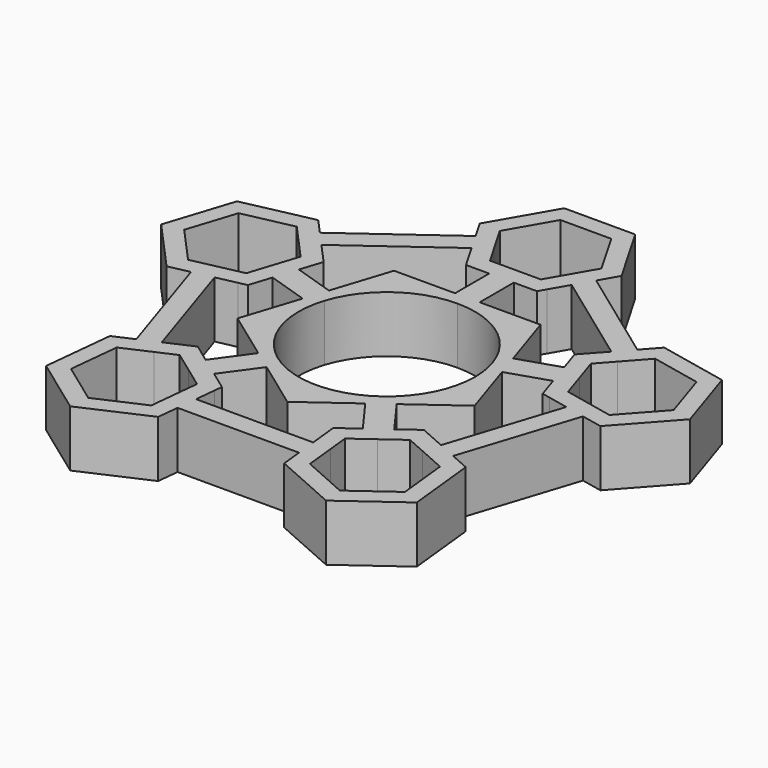
from build123d import *

# Parameters (mm, degrees)
F1_DEPTH = 7.0104


with BuildPart() as f1:
    # F0 (on Top) → F1 (new body)
    with BuildSketch(Plane.XY):
        Polygon((-19.6123088264, -14.3259550522), (-17.2804522048, -13.2841705842), (-21.7898565446, 0.5341987249), (-24.2873556745, 0), align=None)
        Polygon((-17.9706494369, 12.3259955313), (-6.1962033311, 20.8921389834), (-7.4732849288, 23.1041091962), (-7.4963492105, 23.0873294731), (-7.5672560221, 23.035743359), (-14.0950221279, 18.286663837), (-19.682144033, 14.2219216577), align=None)
        Polygon((6.2011292189, 20.9006708714), (17.9456495392, 12.3792450933), (19.652060322, 14.2792867992), (7.4780391848, 23.112343809), align=None)
        Polygon((-7.4732849288, 23.1041091962), (-6.1962033311, 20.8921389834), (-4.4406123873, 22.1693662715), (-6.3058196401, 25.4), (-3.15290982, 30.861), (3.15290982, 30.861), (6.3058196401, 25.4), (4.4441426069, 22.1754807911), (6.2011292189, 20.9006708714), (7.4780391848, 23.112343809), (8.7988181024, 25.4), (4.3994090512, 33.02), (-4.3994090512, 33.02), (-8.7988181024, 25.4), align=None)
        Polygon((24.2872762442, 0.0621152063), (21.7884190625, 0.5899247999), (17.3143701173, -13.2399321733), (19.6488834891, -14.2757494827), align=None)
        Polygon((7.5632502618, -23.0699233381), (7.2930011362, -20.5299233381), (-7.2385424412, -20.5299233381), (-7.5022237136, -23.0699233381), align=None)
        Polygon((6.2011292189, 20.9006708714), (17.9456495392, 12.3792450933), (19.652060322, 14.2792867992), (7.4780391848, 23.112343809), align=None)
        Polygon((-7.4732849288, 23.1041091962), (-6.1962033311, 20.8921389834), (-4.4406123873, 22.1693662715), (-6.3058196401, 25.4), (-3.15290982, 30.861), (3.15290982, 30.861), (6.3058196401, 25.4), (4.4441426069, 22.1754807911), (6.2011292189, 20.9006708714), (7.4780391848, 23.112343809), (8.7988181024, 25.4), (4.3994090512, 33.02), (-4.3994090512, 33.02), (-8.7988181024, 25.4), align=None)
        Polygon((-17.9706494369, 12.3259955313), (-6.1962033311, 20.8921389834), (-7.4732849288, 23.1041091962), (-7.4963492105, 23.0873294731), (-7.5672560221, 23.035743359), (-14.0950221279, 18.286663837), (-19.682144033, 14.2219216577), align=None)
        Polygon((0, 17.78), (0, 12.4951580744), (1.524, 12.4971069019), (1.524, 17.78), align=None)
        Polygon((-21.7898565446, 0.5341987249), (-22.4633388079, 2.597980532), (-26.1077876566, 1.8184567658), (-30.3331935574, 6.4991945609), (-28.3922586688, 12.4988723099), (-22.2259178793, 13.8178122637), (-19.7262403807, 11.0487682433), (-17.9706494369, 12.3259955313), (-19.682144033, 14.2219216577), (-21.458571528, 16.1897778854), (-30.0627679784, 14.3493965545), (-32.7710492184, 5.9777531838), (-26.875134008, -0.5535088559), (-24.2873556745, 0), align=None)
        Polygon((26.1030515475, 1.8852218017), (22.4566209762, 2.6554222966), (21.7884190625, 0.5899247999), (24.2872762442, 0.0621152063), (26.8764617201, -0.484773565), (32.7556538665, 6.0615459892), (30.0259709045, 14.4262355188), (21.417095796, 16.2446054942), (19.652060322, 14.2792867992), (17.9456495392, 12.3792450933), (19.7026361512, 11.1044351735), (22.1905059686, 13.8746101275), (28.3601997963, 12.5714449785), (30.3164725858, 6.5767508156), align=None)
        Polygon((9.8592390124, -24.2429116945), (9.4641871004, -20.5299233381), (7.2930011362, -20.5299233381), (7.5632502618, -23.0699233381), (7.8442363623, -25.7108373238), (15.8869265185, -29.2793573324), (22.9987005779, -24.0984433466), (22.0677844811, -15.3490093523), (19.6488834891, -14.2757494827), (17.3143701173, -13.2399321733), (16.6461682035, -15.30542967), (20.0527818309, -16.8169349816), (20.719938367, -23.0873626775), (15.6231669577, -26.800351034), align=None)
        Polygon((-7.2385424412, -20.5299233381), (-9.4091448565, -20.5299233381), (-9.7972052281, -24.2680475327), (-15.5545736407, -26.8402198238), (-20.660824394, -23.140278665), (-20.0097067346, -16.8681652152), (-16.6069699415, -15.3479523913), (-17.2804522048, -13.2841705842), (-19.6123088264, -14.3259550522), (-22.0284570324, -15.4053977804), (-22.9369933013, -24.1571839894), (-15.8119922502, -29.319892583), (-7.7784549303, -25.7308149676), (-7.5022237136, -23.0699233381), align=None)
        Polygon((-19.6123088264, -14.3259550522), (-17.2804522048, -13.2841705842), (-21.7898565446, 0.5341987249), (-24.2873556745, 0), align=None)
        Polygon((-17.9706494369, 12.3259955313), (-6.1962033311, 20.8921389834), (-7.4732849288, 23.1041091962), (-7.4963492105, 23.0873294731), (-7.5672560221, 23.035743359), (-14.0950221279, 18.286663837), (-19.682144033, 14.2219216577), align=None)
        Polygon((6.2011292189, 20.9006708714), (17.9456495392, 12.3792450933), (19.652060322, 14.2792867992), (7.4780391848, 23.112343809), align=None)
        Polygon((-7.4732849288, 23.1041091962), (-6.1962033311, 20.8921389834), (-4.4406123873, 22.1693662715), (-6.3058196401, 25.4), (-3.15290982, 30.861), (3.15290982, 30.861), (6.3058196401, 25.4), (4.4441426069, 22.1754807911), (6.2011292189, 20.9006708714), (7.4780391848, 23.112343809), (8.7988181024, 25.4), (4.3994090512, 33.02), (-4.3994090512, 33.02), (-8.7988181024, 25.4), align=None)
        Polygon((24.2872762442, 0.0621152063), (21.7884190625, 0.5899247999), (17.3143701173, -13.2399321733), (19.6488834891, -14.2757494827), align=None)
        Polygon((7.5632502618, -23.0699233381), (7.2930011362, -20.5299233381), (-7.2385424412, -20.5299233381), (-7.5022237136, -23.0699233381), align=None)
        Polygon((6.2011292189, 20.9006708714), (17.9456495392, 12.3792450933), (19.652060322, 14.2792867992), (7.4780391848, 23.112343809), align=None)
        Polygon((-7.4732849288, 23.1041091962), (-6.1962033311, 20.8921389834), (-4.4406123873, 22.1693662715), (-6.3058196401, 25.4), (-3.15290982, 30.861), (3.15290982, 30.861), (6.3058196401, 25.4), (4.4441426069, 22.1754807911), (6.2011292189, 20.9006708714), (7.4780391848, 23.112343809), (8.7988181024, 25.4), (4.3994090512, 33.02), (-4.3994090512, 33.02), (-8.7988181024, 25.4), align=None)
        Polygon((-17.9706494369, 12.3259955313), (-6.1962033311, 20.8921389834), (-7.4732849288, 23.1041091962), (-7.4963492105, 23.0873294731), (-7.5672560221, 23.035743359), (-14.0950221279, 18.286663837), (-19.682144033, 14.2219216577), align=None)
        Polygon((0, 17.78), (0, 12.4951580744), (1.524, 12.4971069019), (1.524, 17.78), align=None)
        Polygon((-21.7898565446, 0.5341987249), (-22.4633388079, 2.597980532), (-26.1077876566, 1.8184567658), (-30.3331935574, 6.4991945609), (-28.3922586688, 12.4988723099), (-22.2259178793, 13.8178122637), (-19.7262403807, 11.0487682433), (-17.9706494369, 12.3259955313), (-19.682144033, 14.2219216577), (-21.458571528, 16.1897778854), (-30.0627679784, 14.3493965545), (-32.7710492184, 5.9777531838), (-26.875134008, -0.5535088559), (-24.2873556745, 0), align=None)
        Polygon((26.1030515475, 1.8852218017), (22.4566209762, 2.6554222966), (21.7884190625, 0.5899247999), (24.2872762442, 0.0621152063), (26.8764617201, -0.484773565), (32.7556538665, 6.0615459892), (30.0259709045, 14.4262355188), (21.417095796, 16.2446054942), (19.652060322, 14.2792867992), (17.9456495392, 12.3792450933), (19.7026361512, 11.1044351735), (22.1905059686, 13.8746101275), (28.3601997963, 12.5714449785), (30.3164725858, 6.5767508156), align=None)
        Polygon((9.8592390124, -24.2429116945), (9.4641871004, -20.5299233381), (7.2930011362, -20.5299233381), (7.5632502618, -23.0699233381), (7.8442363623, -25.7108373238), (15.8869265185, -29.2793573324), (22.9987005779, -24.0984433466), (22.0677844811, -15.3490093523), (19.6488834891, -14.2757494827), (17.3143701173, -13.2399321733), (16.6461682035, -15.30542967), (20.0527818309, -16.8169349816), (20.719938367, -23.0873626775), (15.6231669577, -26.800351034), align=None)
        Polygon((-7.2385424412, -20.5299233381), (-9.4091448565, -20.5299233381), (-9.7972052281, -24.2680475327), (-15.5545736407, -26.8402198238), (-20.660824394, -23.140278665), (-20.0097067346, -16.8681652152), (-16.6069699415, -15.3479523913), (-17.2804522048, -13.2841705842), (-19.6123088264, -14.3259550522), (-22.0284570324, -15.4053977804), (-22.9369933013, -24.1571839894), (-15.8119922502, -29.319892583), (-7.7784549303, -25.7308149676), (-7.5022237136, -23.0699233381), align=None)
        Polygon((-18.9709794229, 6.1372355941), (-16.9167969376, 5.4726941603), (-16.4477088667, 6.9227053264), (-15.5626563176, 9.6585158456), (-16.2591548408, 10.4300694048), (-17.9706494369, 12.3259955313), (-19.7262403807, 11.0487682433), (-18.0005119785, 9.1370744685), align=None)
        Polygon((-17.3858850085, 4.0226829942), (-16.9167969376, 5.4726941603), (-18.9709794229, 6.1372355941), (-19.9414468672, 3.1373967196), (-22.4633388079, 2.597980532), (-21.7898565446, 0.5341987249), (-19.2923574146, 1.0683974498), (-18.2709375576, 1.286872475), align=None)
        Polygon((-11.6992129454, -16.1459635036), (-10.432419187, -14.3976744618), (-11.6665055694, -13.5034671029), (-13.9949197125, -11.816320165), (-14.9485955831, -12.2423861162), (-17.2804522048, -13.2841705842), (-16.6069699415, -15.3479523913), (-14.252338322, -14.2959929242), align=None)
        Polygon((-6.0974445658, -11.0123778434), (-7.3315309483, -10.1181704846), (-10.432419187, -14.3976744618), (-9.1983328045, -15.2918818207), align=None)
        Polygon((-10.432419187, -14.3976744618), (-7.3315309483, -10.1181704846), (-8.5656173307, -9.2239631257), (-11.6665055694, -13.5034671029), align=None)
        Polygon((-9.1983328045, -15.2918818207), (-10.432419187, -14.3976744618), (-11.6992129454, -16.1459635036), (-9.1460875687, -17.995934083), (-9.4091448565, -20.5299233381), (-7.2385424412, -20.5299233381), (-6.9748611689, -17.9899233381), (-6.8699186614, -16.9790287586), align=None)
        Polygon((11.740468181, -16.1159898204), (10.4692072952, -14.3709463366), (9.2374118949, -15.2683069619), (6.9133202655, -16.9614033295), (7.0227520107, -17.9899233381), (7.2930011362, -20.5299233381), (9.4641871004, -20.5299233381), (9.1920824764, -17.9724839986), align=None)
        Polygon((11.7010026955, -13.4735857113), (10.4692072952, -14.3709463366), (11.740468181, -16.1159898204), (14.2888538856, -14.2594956421), (16.6461682035, -15.30542967), (17.3143701173, -13.2399321733), (14.9798567454, -12.2041148639), (14.0250943249, -11.7804893438), align=None)
        Polygon((8.5891797148, -9.2020262892), (7.3573843145, -10.0993869145), (10.4692072952, -14.3709463366), (11.7010026955, -13.4735857113), align=None)
        Polygon((10.4692072952, -14.3709463366), (7.3573843145, -10.0993869145), (6.1255889142, -10.9967475398), (9.2374118949, -15.2683069619), align=None)
        with BuildLine():
            ThreePointArc((10.4072616447, 3.3962437808), (10.8115221613, 1.7194636708), (10.9474, 0))
            ThreePointArc((10.9474, 0), (9.7573805511, -4.9637779503), (6.4460404917, -8.8483969587))
            Line((6.4460404917, -8.8483969587), (7.3573843145, -10.0993869145))
            Line((7.3573843145, -10.0993869145), (8.5891797148, -9.2020262892))
            Line((8.5891797148, -9.2020262892), (14.6950184147, -4.7539343151))
            Line((14.6950184147, -4.7539343151), (12.3514394808, 2.4275993804))
            Line((12.3514394808, 2.4275993804), (11.8786445229, 3.8764061059))
            Line((11.8786445229, 3.8764061059), (10.4072616447, 3.3962437808))
        make_face()
        with BuildLine():
            Line((7.3573843145, -10.0993869145), (6.4460404917, -8.8483969587))
            ThreePointArc((6.4460404917, -8.8483969587), (0.0139990655, -10.9473910493), (-6.423389528, -8.8648538472))
            Line((-6.423389528, -8.8648538472), (-7.3315309483, -10.1181704846))
            Line((-7.3315309483, -10.1181704846), (-6.0974445658, -11.0123778434))
            Line((-6.0974445658, -11.0123778434), (0.0197502144, -15.4448395139))
            Line((0.0197502144, -15.4448395139), (6.1255889142, -10.9967475398))
            Line((6.1255889142, -10.9967475398), (7.3573843145, -10.0993869145))
        make_face()
        with BuildLine():
            Line((-7.3315309483, -10.1181704846), (-6.423389528, -8.8648538472))
            ThreePointArc((-6.423389528, -8.8648538472), (-10.4072616447, -3.3962437808), (-10.415913543, 3.3696159758))
            Line((-10.415913543, 3.3696159758), (-11.8885196301, 3.8460136511))
            Line((-11.8885196301, 3.8460136511), (-12.357607701, 2.396002485))
            Line((-12.357607701, 2.396002485), (-14.6828121109, -4.7915014552))
            Line((-14.6828121109, -4.7915014552), (-8.5656173307, -9.2239631257))
            Line((-8.5656173307, -9.2239631257), (-7.3315309483, -10.1181704846))
        make_face()
        with BuildLine():
            ThreePointArc((-10.415913543, 3.3696159758), (-6.4403816978, 8.8525166109), (0, 10.9474))
            Line((0, 10.9474), (0, 12.4951580744))
            Line((0, 12.4951580744), (-1.524, 12.493209247))
            Line((-1.524, 12.493209247), (-9.0942271493, 12.4835287574))
            Line((-9.0942271493, 12.4835287574), (-11.4194315592, 5.2960248172))
            Line((-11.4194315592, 5.2960248172), (-11.8885196301, 3.8460136511))
            Line((-11.8885196301, 3.8460136511), (-10.415913543, 3.3696159758))
        make_face()
        with BuildLine():
            ThreePointArc((0, 10.9474), (6.4290562136, 8.8607450569), (10.4072616447, 3.3962437808))
            Line((10.4072616447, 3.3962437808), (11.8786445229, 3.8764061059))
            Line((11.8786445229, 3.8764061059), (11.4058495651, 5.3252128313))
            Line((11.4058495651, 5.3252128313), (9.0622706312, 12.5067465268))
            Line((9.0622706312, 12.5067465268), (1.524, 12.4971069019))
            Line((1.524, 12.4971069019), (0, 12.4951580744))
            Line((0, 12.4951580744), (0, 10.9474))
        make_face()
        Polygon((0, 17.78), (0, 12.4951580744), (1.524, 12.4971069019), (1.524, 17.78), align=None)
        Polygon((0, 17.78), (0, 12.4951580744), (1.524, 12.4971069019), (1.524, 17.78), align=None)
        Polygon((-16.9167969376, 5.4726941603), (-11.8885196301, 3.8460136511), (-11.4194315592, 5.2960248172), (-16.4477088667, 6.9227053264), align=None)
        Polygon((-12.357607701, 2.396002485), (-11.8885196301, 3.8460136511), (-16.9167969376, 5.4726941603), (-17.3858850085, 4.0226829942), align=None)
        Polygon((11.4058495651, 5.3252128313), (11.8786445229, 3.8764061059), (16.9027451306, 5.5159411752), (16.4299501728, 6.9647479007), align=None)
        Polygon((16.9027451306, 5.5159411752), (11.8786445229, 3.8764061059), (12.3514394808, 2.4275993804), (17.3755400885, 4.0671344498), align=None)
        Polygon((16.4299501728, 6.9647479007), (16.9027451306, 5.5159411752), (18.9552213251, 6.1857340322), (17.9770849303, 9.1830811137), (19.7026361512, 11.1044351735), (17.9456495392, 12.3792450933), (16.2392387563, 10.4792033873), (15.5379036496, 9.6982859401), align=None)
        Polygon((18.9552213251, 6.1857340322), (16.9027451306, 5.5159411752), (17.3755400885, 4.0671344498), (18.2675866116, 1.3335964104), (19.2895618807, 1.1177343934), (21.7884190625, 0.5899247999), (22.4566209762, 2.6554222966), (19.9333577198, 3.1883869508), align=None)
        Polygon((-1.524, 12.493209247), (0, 12.4951580744), (0, 17.78), (-1.524, 17.78), align=None)
        Polygon((0, 19.939), (0, 17.78), (1.524, 17.78), (4.3994090512, 17.78), (4.924219253, 18.6889979337), (6.2011292189, 20.9006708714), (4.4441426069, 22.1754807911), (3.15290982, 19.939), align=None)
        Polygon((-1.524, 17.78), (0, 17.78), (0, 19.939), (-3.15290982, 19.939), (-4.4406123873, 22.1693662715), (-6.1962033311, 20.8921389834), (-4.3994090512, 17.78), align=None)
        Polygon((-7.4732849288, 23.1041091962), (-6.1962033311, 20.8921389834), (-4.4406123873, 22.1693662715), (-6.3058196401, 25.4), (-3.15290982, 30.861), (3.15290982, 30.861), (6.3058196401, 25.4), (4.4441426069, 22.1754807911), (6.2011292189, 20.9006708714), (7.4780391848, 23.112343809), (8.7988181024, 25.4), (4.3994090512, 33.02), (-4.3994090512, 33.02), (-8.7988181024, 25.4), align=None)
    extrude(amount=-F1_DEPTH)


solid = f1.part
